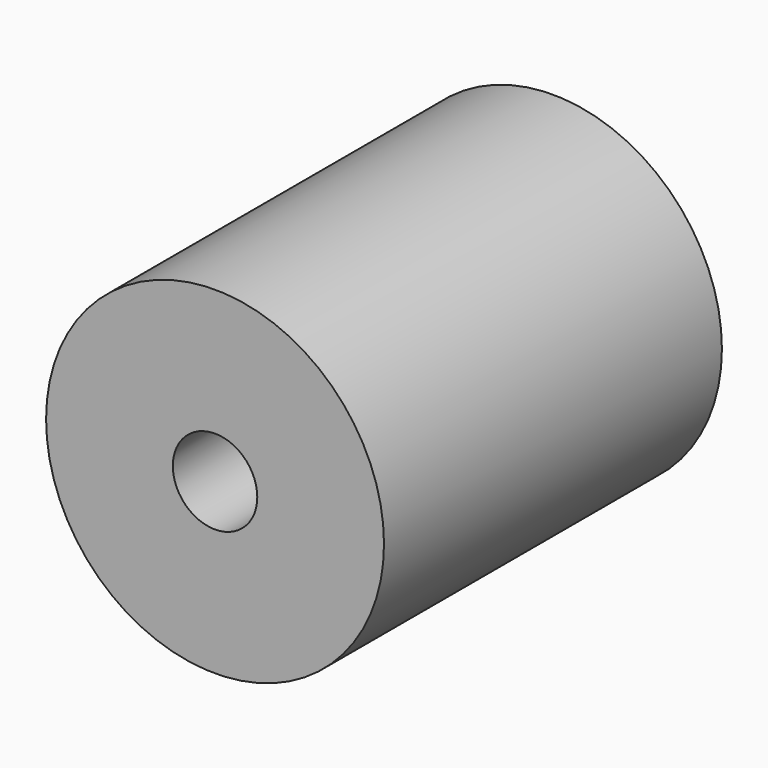
from build123d import *

# Parameters (mm, degrees)
F0_R     = 10
F1_DEPTH = 12.5
F2_R     = 2.5
F3_DEPTH = 12
F4_R     = 4
F5_DEPTH = 12


with BuildPart() as f1:
    # F0 (on Front) → F1 (new body, symmetric)
    with BuildSketch(Plane.XZ):
        Circle(F0_R)
    extrude(amount=F1_DEPTH, both=True)

    # F2 (on face) → F3 (cut)
    with BuildSketch(Plane.XZ.offset(12.5)):
        Circle(F2_R)
    extrude(amount=-F3_DEPTH, mode=Mode.SUBTRACT)

    # F4 (on face) → F5 (cut)
    with BuildSketch(Plane(origin=(0, 12.5, 0), x_dir=(-1, 0, 0), z_dir=(0, 1, 0))):
        Circle(F4_R)
    extrude(amount=-F5_DEPTH, mode=Mode.SUBTRACT)


solid = f1.part
